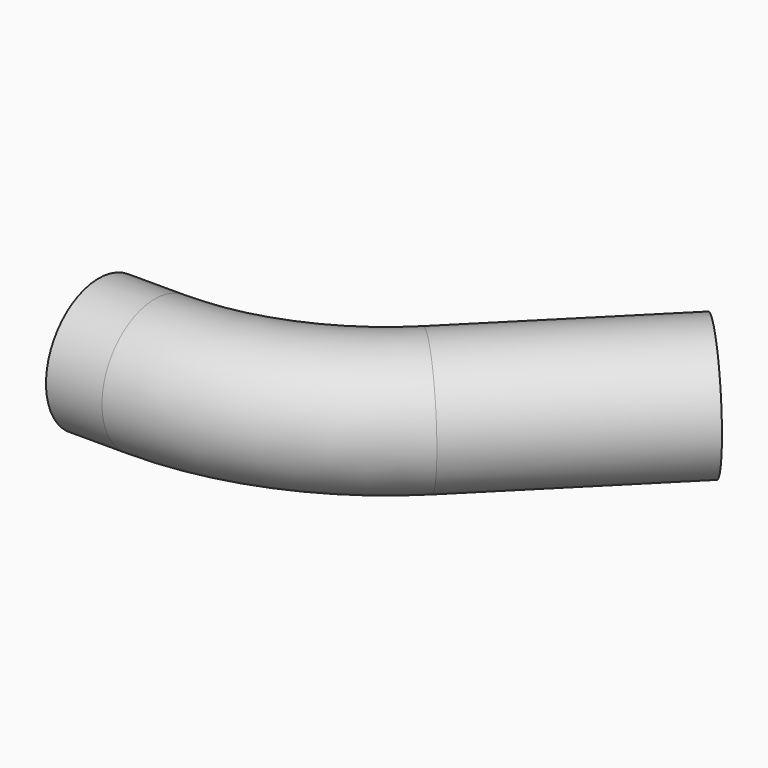
from build123d import *

# Parameters (mm, degrees)
F1_R     = 22.4155
F1_R_2   = 20.828
F3_R     = 1.5875
F4_DEPTH = 23.4155001226


with BuildPart() as f2:
    # F2: sweep along a path in F0
    with BuildLine(Plane.XY) as f2_path:
        Line((0, 0), (19.05, 0))
        ThreePointArc((19.05, 0), (56.7885180244, 7.5066579616), (88.7816887801, 28.8838112199))
        Line((88.7816887801, 28.8838112199), (142.6632255065, 82.7653479463))
    # F1 (on Right) → F2 (sweep)
    with BuildSketch(Plane.YZ):
        Circle(F1_R)
        Circle(F1_R_2, mode=Mode.SUBTRACT)
    sweep(path=f2_path.line)

    # F3 (on Top) → F4 (cut, up to face)
    with BuildSketch(Plane.XY):
        with Locations((9.525, 0)):
            Circle(F3_R)
    extrude(amount=-F4_DEPTH, mode=Mode.SUBTRACT)


solid = f2.part
